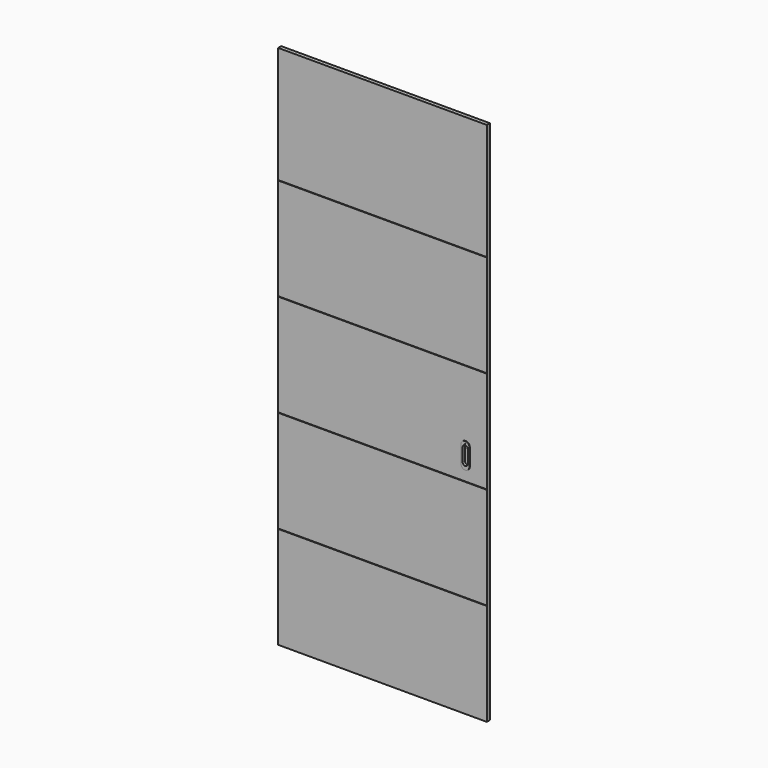
from build123d import *

# Parameters (mm, degrees)
F0_W     = 980
F0_H     = 2467
F1_DEPTH = 18
F3_DEPTH = 980.001
F5_DEPTH = 13
F6_DEPTH = 13
F7_START = -11
F7_DEPTH = 2
F4_R     = 1.75
F8_DEPTH = 2


with BuildPart() as f1:
    # F0 (on Front) → F1 (new body)
    with BuildSketch(Plane.XZ):
        with Locations((-171.7555719672, -4.3911735862)):
            Rectangle(F0_W, F0_H)
    extrude(amount=F1_DEPTH)

    # F2 (on face) → F3 (cut, through all)
    with BuildSketch(Plane(origin=(-661.7555719672, 0, 0), x_dir=(0, -1, 0), z_dir=(-1, 0, 0))):
        Polygon((18, -757.8911735862), (18, -756.8911735862), (17, -757.8911735862), (18, -758.8911735862), align=None)
        Polygon((18, 682.1088264138), (18, 683.1088264138), (17, 682.1088264138), (18, 681.1088264138), align=None)
        Polygon((17, -277.8911735862), (18, -278.8911735862), (18, -277.8911735862), (18, -276.8911735862), align=None)
        Polygon((17, 202.1088264138), (18, 201.1088264138), (18, 202.1088264138), (18, 203.1088264138), align=None)
    extrude(amount=-F3_DEPTH, mode=Mode.SUBTRACT)

    # F4 (on face) → F5 (cut)
    with BuildSketch(Plane.XZ.offset(18)):
        with BuildLine():
            Line((232.2444280328, -199.8911735862), (232.2444280328, -137.8911735862))
            ThreePointArc((232.2444280328, -137.8911735862), (218.2444280328, -123.8911735862), (204.2444280328, -137.8911735862))
            Line((204.2444280328, -137.8911735862), (204.2444280328, -199.8911735862))
            ThreePointArc((204.2444280328, -199.8911735862), (218.2444280328, -213.8911735862), (232.2444280328, -199.8911735862))
        make_face()
        with BuildLine():
            ThreePointArc((206.2444280328, -137.8911735862), (218.2444280328, -125.8911735862), (230.2444280328, -137.8911735862))
            Line((230.2444280328, -137.8911735862), (230.2444280328, -199.8911735862))
            ThreePointArc((230.2444280328, -199.8911735862), (218.2444280328, -211.8911735862), (206.2444280328, -199.8911735862))
            Line((206.2444280328, -199.8911735862), (206.2444280328, -137.8911735862))
        make_face(mode=Mode.SUBTRACT)
        with BuildLine():
            Line((230.2444280328, -199.8911735862), (230.2444280328, -137.8911735862))
            ThreePointArc((230.2444280328, -137.8911735862), (218.2444280328, -125.8911735862), (206.2444280328, -137.8911735862))
            Line((206.2444280328, -137.8911735862), (206.2444280328, -199.8911735862))
            ThreePointArc((206.2444280328, -199.8911735862), (218.2444280328, -211.8911735862), (230.2444280328, -199.8911735862))
        make_face()
    extrude(amount=-F5_DEPTH, mode=Mode.SUBTRACT)


with BuildPart() as f6:
    # F4 (on face) → F6 (new body)
    with BuildSketch(Plane.XZ.offset(18)):
        with BuildLine():
            Line((232.2444280328, -199.8911735862), (232.2444280328, -137.8911735862))
            ThreePointArc((232.2444280328, -137.8911735862), (218.2444280328, -123.8911735862), (204.2444280328, -137.8911735862))
            Line((204.2444280328, -137.8911735862), (204.2444280328, -199.8911735862))
            ThreePointArc((204.2444280328, -199.8911735862), (218.2444280328, -213.8911735862), (232.2444280328, -199.8911735862))
        make_face()
        with BuildLine():
            ThreePointArc((206.2444280328, -137.8911735862), (218.2444280328, -125.8911735862), (230.2444280328, -137.8911735862))
            Line((230.2444280328, -137.8911735862), (230.2444280328, -199.8911735862))
            ThreePointArc((230.2444280328, -199.8911735862), (218.2444280328, -211.8911735862), (206.2444280328, -199.8911735862))
            Line((206.2444280328, -199.8911735862), (206.2444280328, -137.8911735862))
        make_face(mode=Mode.SUBTRACT)
    extrude(amount=-F6_DEPTH)

    # F4 (on face) → F7 (join)
    with BuildSketch(Plane.XZ.offset(18).offset(F7_START)):
        with BuildLine():
            Line((232.2444280328, -199.8911735862), (232.2444280328, -137.8911735862))
            ThreePointArc((232.2444280328, -137.8911735862), (218.2444280328, -123.8911735862), (204.2444280328, -137.8911735862))
            Line((204.2444280328, -137.8911735862), (204.2444280328, -199.8911735862))
            ThreePointArc((204.2444280328, -199.8911735862), (218.2444280328, -213.8911735862), (232.2444280328, -199.8911735862))
        make_face()
        with BuildLine():
            ThreePointArc((206.2444280328, -137.8911735862), (218.2444280328, -125.8911735862), (230.2444280328, -137.8911735862))
            Line((230.2444280328, -137.8911735862), (230.2444280328, -199.8911735862))
            ThreePointArc((230.2444280328, -199.8911735862), (218.2444280328, -211.8911735862), (206.2444280328, -199.8911735862))
            Line((206.2444280328, -199.8911735862), (206.2444280328, -137.8911735862))
        make_face(mode=Mode.SUBTRACT)
        with BuildLine():
            Line((230.2444280328, -199.8911735862), (230.2444280328, -137.8911735862))
            ThreePointArc((230.2444280328, -137.8911735862), (218.2444280328, -125.8911735862), (206.2444280328, -137.8911735862))
            Line((206.2444280328, -137.8911735862), (206.2444280328, -199.8911735862))
            ThreePointArc((206.2444280328, -199.8911735862), (218.2444280328, -211.8911735862), (230.2444280328, -199.8911735862))
        make_face()
    extrude(amount=-F7_DEPTH)

    # F4 (on face) → F8 (join)
    with BuildSketch(Plane.XZ.offset(18)):
        with BuildLine():
            ThreePointArc((238.2444280328, -128.8911735862), (232.3865636565, -114.7490379625), (218.2444280328, -108.8911735862))
            ThreePointArc((218.2444280328, -108.8911735862), (204.1022924091, -114.7490379625), (198.2444280328, -128.8911735862))
            Line((198.2444280328, -128.8911735862), (198.2444280328, -168.8911735862))
            Line((198.2444280328, -168.8911735862), (198.2444280328, -208.8911735862))
            ThreePointArc((198.2444280328, -208.8911735862), (204.1022924091, -223.03330921), (218.2444280328, -228.8911735862))
            ThreePointArc((218.2444280328, -228.8911735862), (232.3865636565, -223.03330921), (238.2444280328, -208.8911735862))
            Line((238.2444280328, -208.8911735862), (238.2444280328, -168.8911735862))
            Line((238.2444280328, -168.8911735862), (238.2444280328, -128.8911735862))
        make_face()
        with BuildLine():
            ThreePointArc((204.2444280328, -137.8911735862), (218.2444280328, -123.8911735862), (232.2444280328, -137.8911735862))
            Line((232.2444280328, -137.8911735862), (232.2444280328, -199.8911735862))
            ThreePointArc((232.2444280328, -199.8911735862), (218.2444280328, -213.8911735862), (204.2444280328, -199.8911735862))
            Line((204.2444280328, -199.8911735862), (204.2444280328, -137.8911735862))
        make_face(mode=Mode.SUBTRACT)
        with Locations((218.2444280328, -118.6317622662)):
            Circle(F4_R, mode=Mode.SUBTRACT)
        with BuildLine():
            Line((232.2444280328, -199.8911735862), (232.2444280328, -137.8911735862))
            ThreePointArc((232.2444280328, -137.8911735862), (218.2444280328, -123.8911735862), (204.2444280328, -137.8911735862))
            Line((204.2444280328, -137.8911735862), (204.2444280328, -199.8911735862))
            ThreePointArc((204.2444280328, -199.8911735862), (218.2444280328, -213.8911735862), (232.2444280328, -199.8911735862))
        make_face()
        with BuildLine():
            ThreePointArc((206.2444280328, -137.8911735862), (218.2444280328, -125.8911735862), (230.2444280328, -137.8911735862))
            Line((230.2444280328, -137.8911735862), (230.2444280328, -199.8911735862))
            ThreePointArc((230.2444280328, -199.8911735862), (218.2444280328, -211.8911735862), (206.2444280328, -199.8911735862))
            Line((206.2444280328, -199.8911735862), (206.2444280328, -137.8911735862))
        make_face(mode=Mode.SUBTRACT)
    extrude(amount=F8_DEPTH)


solid = Compound([f1.part, f6.part])
